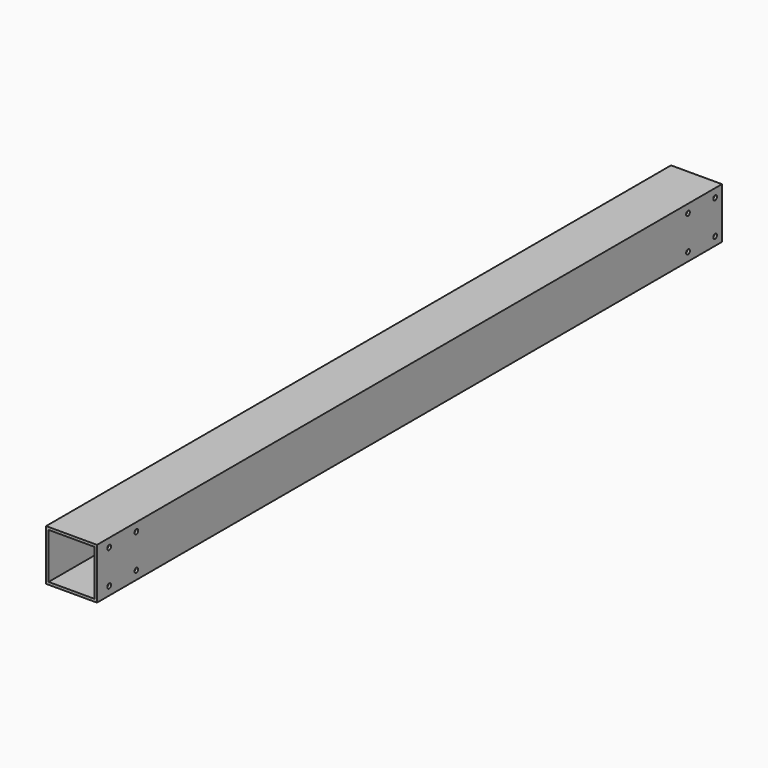
from build123d import *

# Parameters (mm, degrees)
SKETCH_W     = 60
SKETCH_H     = 60
SKETCH_W_2   = 54
SKETCH_H_2   = 54
PAD_DEPTH    = 921
SKETCH002_R  = 2.75
POCKET_DEPTH = 3


with BuildPart() as part:
    # Sketch → Pad (new body)
    with BuildSketch(Plane.XZ):
        Rectangle(SKETCH_W, SKETCH_H)
        Rectangle(SKETCH_W_2, SKETCH_H_2, mode=Mode.SUBTRACT)
    extrude(amount=PAD_DEPTH)

    # Sketch002 (on Face2 of Pad) → Pocket (cut)
    with BuildSketch(Plane(origin=(30, 0, 0), x_dir=(0, 0, 1), z_dir=(1, 0, 0))):
        with Locations((-20, 50)):
            Circle(SKETCH002_R)
        with Locations((20, 50)):
            Circle(SKETCH002_R)
        with Locations((-20, 10)):
            Circle(SKETCH002_R)
        with Locations((20, 10)):
            Circle(SKETCH002_R)
        with Locations((-20, 903)):
            Circle(SKETCH002_R)
        with Locations((20, 903)):
            Circle(SKETCH002_R)
        with Locations((-20, 863)):
            Circle(SKETCH002_R)
        with Locations((20, 863)):
            Circle(SKETCH002_R)
    extrude(amount=-POCKET_DEPTH, mode=Mode.SUBTRACT)


solid = part.part
